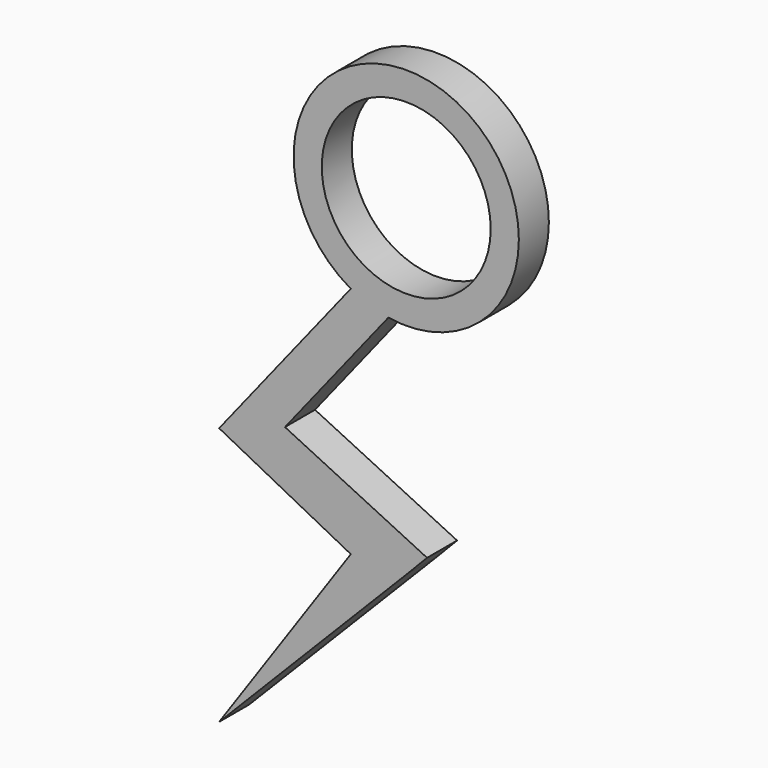
from build123d import *

# Parameters (mm, degrees)
F0_R     = 4.5
F1_DEPTH = 2


with BuildPart() as f1:
    # F0 (on Front) → F1 (new body)
    with BuildSketch(Plane.XZ):
        with BuildLine():
            Line((-6.46062, -12.852067), (-0.952022, -5.92399))
            ThreePointArc((-0.952022, -5.92399), (1.983657, 5.662606), (-2.952885, -5.223071))
            Line((-2.952885, -5.223071), (-9.968355, -14.046318))
            Line((-9.968355, -14.046318), (-2.952885, -17.671175))
            Line((-2.952885, -17.671175), (-9.968355, -27.820772))
            Line((-9.968355, -27.820772), (0, -17.671175))
            Line((0, -17.671175), (1.10961, -16.521597))
            Line((1.10961, -16.521597), (-6.46062, -12.852067))
        make_face()
        Circle(F0_R, mode=Mode.SUBTRACT)
    extrude(amount=F1_DEPTH)


solid = f1.part
